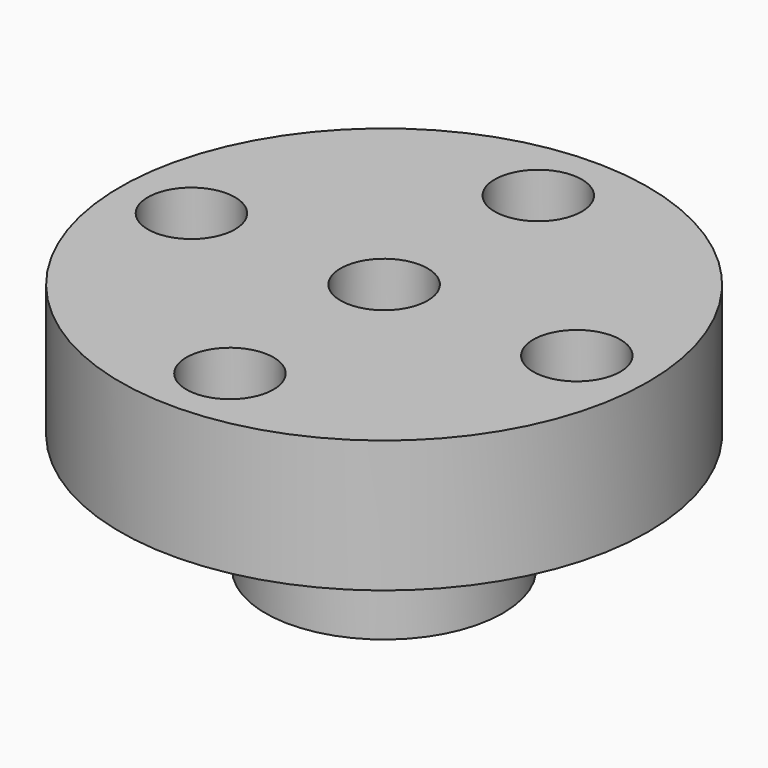
from build123d import *

# Parameters (mm, degrees)
SKETCH_R      = 4.5
SKETCH_R_2    = 2.8
PAD_DEPTH     = 4.5
SKETCH001_R   = 10
SKETCH001_R_2 = 1.65
PAD001_DEPTH  = 5
SKETCH002_R   = 1.65
POCKET_DEPTH  = 9.501


with BuildPart() as part:
    # Sketch → Pad (new body)
    with BuildSketch(Plane.XY):
        Circle(SKETCH_R)
        Circle(SKETCH_R_2, mode=Mode.SUBTRACT)
    extrude(amount=PAD_DEPTH)

    # Sketch001 (on Face4 of Pad) → Pad001 (join)
    with BuildSketch(Plane.XY.offset(4.5)):
        Circle(SKETCH001_R)
        Circle(SKETCH001_R_2, mode=Mode.SUBTRACT)
    extrude(amount=PAD001_DEPTH)

    # Sketch002 (on Face7 of Pad001) → Pocket (cut, through all)
    with BuildSketch(Plane.XY.offset(9.5)):
        with Locations((-7.3, 0)):
            Circle(SKETCH002_R)
        with Locations((0, -7.3)):
            Circle(SKETCH002_R)
        with Locations((0, 7.3)):
            Circle(SKETCH002_R)
        with Locations((7.3, 0)):
            Circle(SKETCH002_R)
    extrude(amount=-POCKET_DEPTH, mode=Mode.SUBTRACT)


solid = part.part
